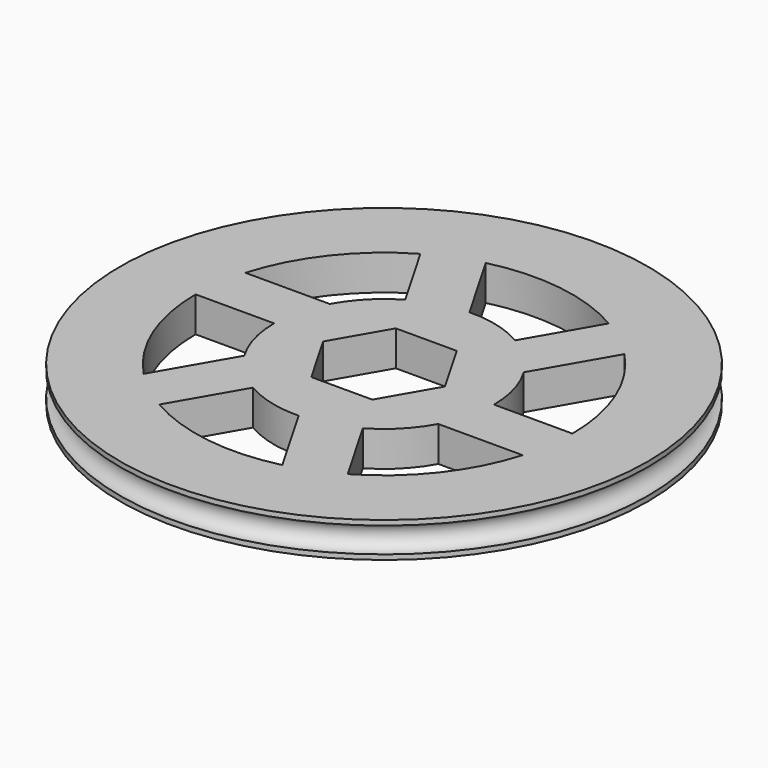
from build123d import *

# Parameters (mm, degrees)
F0_R     = 30.48
F1_DEPTH = 4.064
F2_R     = 1.462449


with BuildPart() as f1:
    # F0 (on Top) → F1 (new body)
    with BuildSketch(Plane.XY):
        Circle(F0_R)
        with BuildLine():
            ThreePointArc((-6.35, -10.998523), (-3.146058, -12.304159), (0.291364, -12.696657))
            Line((0.291364, -12.696657), (5.163894, -21.136127))
            ThreePointArc((5.163894, -21.136127), (-3.078985, -21.538838), (-10.878898, -18.842804))
            Line((-10.878898, -18.842804), (-6.35, -10.998523))
        make_face(mode=Mode.SUBTRACT)
        with BuildLine():
            Line((-21.757796, 0), (-12.7, 0))
            ThreePointArc((-12.7, 0), (-12.228743, -3.427513), (-10.849946, -6.600657))
            Line((-10.849946, -6.600657), (-15.722476, -15.040127))
            ThreePointArc((-15.722476, -15.040127), (-20.192673, -8.10294), (-21.757796, 0))
        make_face(mode=Mode.SUBTRACT)
        with BuildLine():
            Line((10.878898, -18.842804), (6.35, -10.998523))
            ThreePointArc((6.35, -10.998523), (9.082685, -8.876646), (11.14131, -6.096))
            Line((11.14131, -6.096), (20.88637, -6.096))
            ThreePointArc((20.88637, -6.096), (17.113688, -13.435898), (10.878898, -18.842804))
        make_face(mode=Mode.SUBTRACT)
        with BuildLine():
            ThreePointArc((-6.35, 10.998523), (-9.082685, 8.876646), (-11.14131, 6.096))
            Line((-11.14131, 6.096), (-20.88637, 6.096))
            ThreePointArc((-20.88637, 6.096), (-17.113688, 13.435898), (-10.878898, 18.842804))
            Line((-10.878898, 18.842804), (-6.35, 10.998523))
        make_face(mode=Mode.SUBTRACT)
        Polygon((7.039054, 0), (3.519527, -6.096), (-3.519527, -6.096), (-7.039054, 0), (-3.519527, 6.096), (3.519527, 6.096), align=None, mode=Mode.SUBTRACT)
        with BuildLine():
            ThreePointArc((12.7, 0), (12.228743, 3.427513), (10.849946, 6.600657))
            Line((10.849946, 6.600657), (15.722476, 15.040127))
            ThreePointArc((15.722476, 15.040127), (20.192673, 8.10294), (21.757796, 0))
            Line((21.757796, 0), (12.7, 0))
        make_face(mode=Mode.SUBTRACT)
        with BuildLine():
            Line((10.878898, 18.842804), (6.35, 10.998523))
            ThreePointArc((6.35, 10.998523), (3.146058, 12.304159), (-0.291364, 12.696657))
            Line((-0.291364, 12.696657), (-5.163894, 21.136127))
            ThreePointArc((-5.163894, 21.136127), (3.078985, 21.538838), (10.878898, 18.842804))
        make_face(mode=Mode.SUBTRACT)
    extrude(amount=F1_DEPTH)

    # F2 (on Right) → F3 (revolve, cut)
    with BuildSketch(Plane.YZ):
        with Locations((30.48, 2.032)):
            Circle(F2_R)
    revolve(axis=Axis((0, 0, 0), (0, 0, -1)), mode=Mode.SUBTRACT)


solid = f1.part
